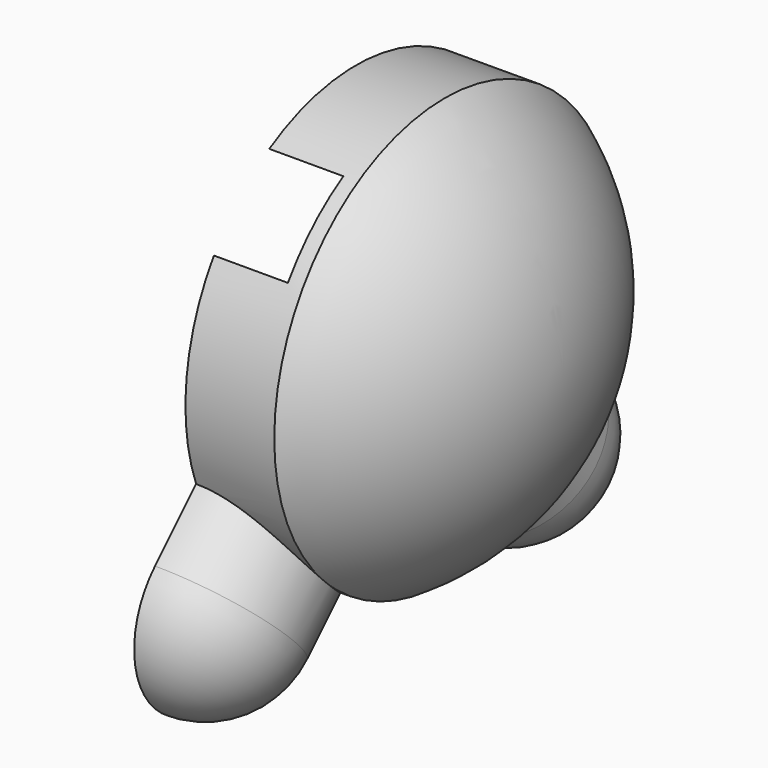
from build123d import *

# Parameters (mm, degrees)
F1_W     = 7.62
F1_H     = 18.288
F4_ANGLE = 180
F5_ANGLE = 180
F0_R     = 7.62
F0_W     = 12.7
F0_H     = 0.508
F6_DEPTH = 6.35


with BuildPart() as f2:
    # F1 (on Front) → F2 (revolve)
    with BuildSketch(Plane.XZ):
        with Locations((3.81, 9.144)):
            Rectangle(F1_W, F1_H)
        with BuildLine():
            ThreePointArc((17.78, 0), (15.0694484018, 10.4603602232), (7.62, 18.288))
            Line((7.62, 18.288), (7.62, 0))
            Line((7.62, 0), (17.78, 0))
        make_face()
    revolve(axis=Axis((3.81, 0, 0), (1, 0, 0)))

    # F3 (on Right) → F4 (revolve)
    with BuildSketch(Plane.YZ):
        Polygon((-16.1644610179, -16.1644610179), (-7.1842048969, -7.1842048969), (-12.5723585695, -1.7960512242), (-21.5526146906, -10.7763073453), align=None)
        with BuildLine():
            Line((-21.5526146906, -21.5526146906), (-16.1644610179, -16.1644610179))
            Line((-16.1644610179, -16.1644610179), (-21.5526146906, -10.7763073453))
            ThreePointArc((-21.5526146906, -10.7763073453), (-23.7844610179, -16.1644610179), (-21.5526146906, -21.5526146906))
        make_face()
    revolve(axis=Axis((0, -8.082230509, -8.082230509), (0, 0.7071067812, 0.7071067812)), revolution_arc=F4_ANGLE)

    # F3 (on Right) → F5 (revolve)
    with BuildSketch(Plane.YZ):
        Polygon((12.5723585695, -1.7960512242), (7.1842048969, -7.1842048969), (16.1644610179, -16.1644610179), (21.5526146906, -10.7763073453), align=None)
        with BuildLine():
            Line((21.5526146906, -10.7763073453), (16.1644610179, -16.1644610179))
            Line((16.1644610179, -16.1644610179), (21.5526146906, -21.5526146906))
            ThreePointArc((21.5526146906, -21.5526146906), (23.7844610179, -16.1644610179), (21.5526146906, -10.7763073453))
        make_face()
    revolve(axis=Axis((0, 8.082230509, -8.082230509), (0, 0.7071067812, -0.7071067812)), revolution_arc=F5_ANGLE)

    # F0 (on Right) → F6 (cut)
    with BuildSketch(Plane.YZ):
        with BuildLine():
            Line((-15.24, 15.24), (-25.4, 15.24))
            Line((-25.4, 15.24), (-25.4, 10.16))
            Line((-25.4, 10.16), (-15.24, 10.16))
            Line((-15.24, 10.16), (-15.24, 0))
            ThreePointArc((-15.24, 0), (10.7763073453, -10.7763073453), (0, 15.24))
            Line((0, 15.24), (-2.54, 15.24))
            Line((-2.54, 15.24), (-15.24, 15.24))
        make_face()
        Circle(F0_R, mode=Mode.SUBTRACT)
        with Locations((-8.89, 15.494)):
            Rectangle(F0_W, F0_H)
    extrude(amount=F6_DEPTH, mode=Mode.SUBTRACT)


solid = f2.part
